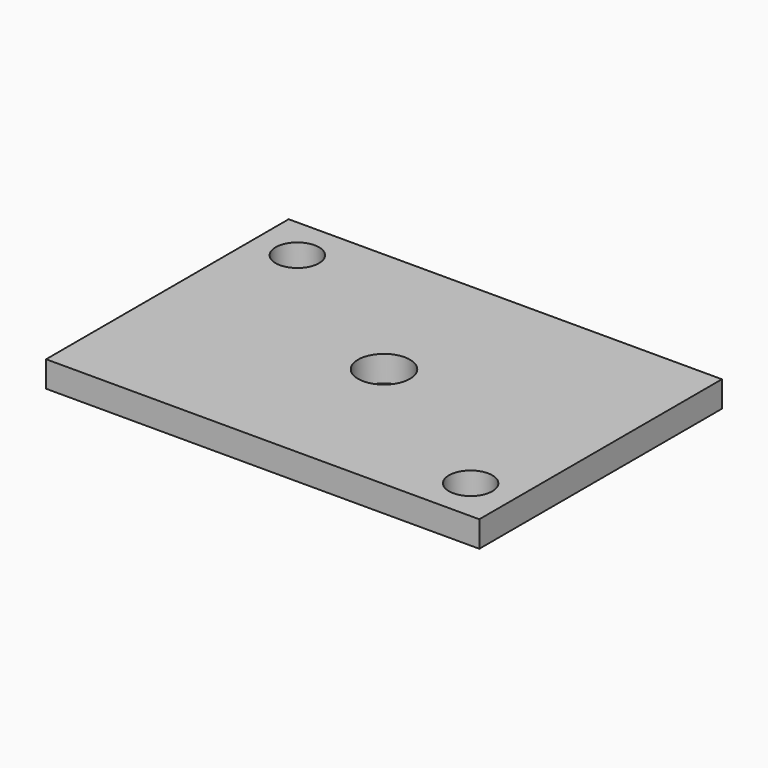
from build123d import *

# Parameters (mm, degrees)
F0_W     = 50
F0_H     = 35
F1_DEPTH = 3
F2_D     = 6
F3_D     = 5
F4_D     = 5


with BuildPart() as f1:
    # F0 (on Top) → F1 (new body)
    with BuildSketch(Plane.XY):
        with Locations((-22.2067534924, 30.9401798017)):
            Rectangle(F0_W, F0_H)
    extrude(amount=F1_DEPTH)

    # F2 (through all)
    with Locations(Plane(origin=(0, 0, 0), x_dir=(1, 0, 0), z_dir=(0, 0, -1))):
        with Locations((-22.2067534924, -30.9401798017)):
            Hole(F2_D / 2)

    # F3 (through all)
    with Locations(Plane(origin=(0, 0, 0), x_dir=(1, 0, 0), z_dir=(0, 0, -1))):
        with Locations((-2.2067534924, -18.4401798017)):
            Hole(F3_D / 2)

    # F4 (through all)
    with Locations(Plane(origin=(0, 0, 0), x_dir=(1, 0, 0), z_dir=(0, 0, -1))):
        with Locations((-42.2067534924, -43.4401798017)):
            Hole(F4_D / 2)


solid = f1.part
